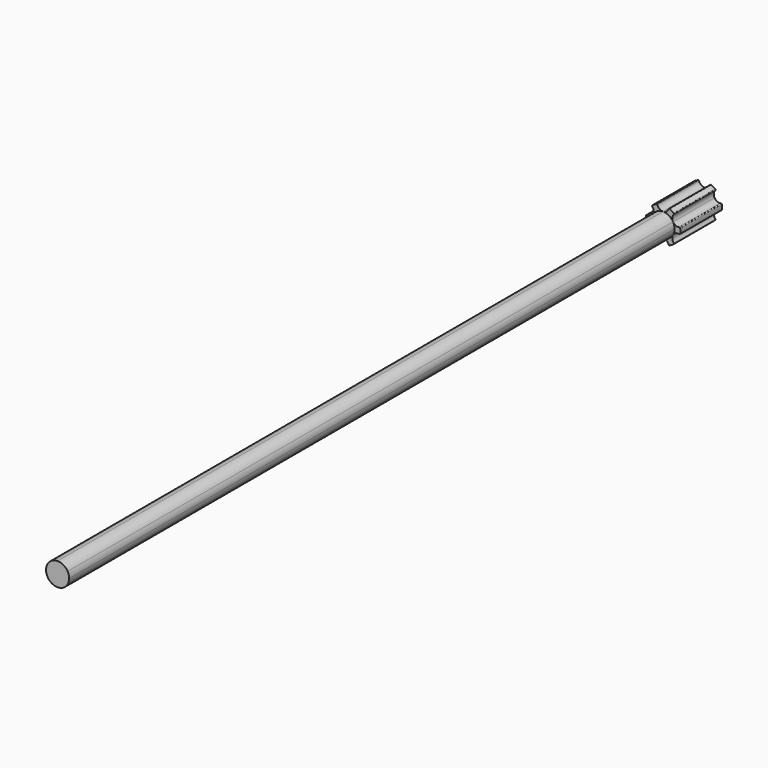
from build123d import *

# Parameters (mm, degrees)
F1_DEPTH = 700
F2_DEPTH = 45
F3_R     = 0.7


with BuildPart() as f1:
    # F0 (on Front) → F1 (new body)
    with BuildSketch(Plane.XZ):
        with BuildLine():
            ThreePointArc((8.660254, -5), (9.659258, -2.58819), (10, 0))
            ThreePointArc((10, 0), (9.659258, 2.588191), (8.660254, 5))
            ThreePointArc((8.660254, 5), (5, 8.660254), (0, 10))
            ThreePointArc((0, 10), (-5, 8.660254), (-8.660254, 5))
            ThreePointArc((-8.660254, 5), (-10, 0), (-8.660254, -5))
            ThreePointArc((-8.660254, -5), (-5, -8.660254), (0, -10))
            ThreePointArc((0, -10), (5, -8.660254), (8.660254, -5))
        make_face()
    extrude(amount=F1_DEPTH)

    # F0 (on Front) → F2 (join)
    with BuildSketch(Plane.XZ):
        with BuildLine():
            ThreePointArc((8.660254, 5), (9.659258, 2.588191), (10, 0))
            ThreePointArc((10, 0), (9.659258, -2.58819), (8.660254, -5))
            ThreePointArc((8.660254, -5), (11.296935, -2.795508), (14.733726, -2.813771))
            ThreePointArc((14.733726, -2.813771), (15, 0), (14.733726, 2.813771))
            ThreePointArc((14.733726, 2.813771), (11.296935, 2.795509), (8.660254, 5))
        make_face()
        with BuildLine():
            ThreePointArc((0, 10), (5, 8.660254), (8.660254, 5))
            ThreePointArc((8.660254, 5), (8.069449, 8.385679), (9.80366, 11.352896))
            ThreePointArc((9.80366, 11.352896), (7.5, 12.990381), (4.930066, 14.166667))
            ThreePointArc((4.930066, 14.166667), (3.227486, 11.181187), (0, 10))
        make_face()
        with BuildLine():
            ThreePointArc((9.80366, -11.352896), (8.069449, -8.385678), (8.660254, -5))
            ThreePointArc((8.660254, -5), (5, -8.660254), (0, -10))
            ThreePointArc((0, -10), (3.227486, -11.181187), (4.930066, -14.166667))
            ThreePointArc((4.930066, -14.166667), (7.5, -12.990381), (9.80366, -11.352896))
        make_face()
        with BuildLine():
            ThreePointArc((-8.660254, 5), (-5, 8.660254), (0, 10))
            ThreePointArc((0, 10), (-3.227486, 11.181187), (-4.930066, 14.166667))
            ThreePointArc((-4.930066, 14.166667), (-7.5, 12.990381), (-9.80366, 11.352896))
            ThreePointArc((-9.80366, 11.352896), (-8.069449, 8.385678), (-8.660254, 5))
        make_face()
        with BuildLine():
            ThreePointArc((-4.930066, -14.166667), (-3.227486, -11.181187), (0, -10))
            ThreePointArc((0, -10), (-5, -8.660254), (-8.660254, -5))
            ThreePointArc((-8.660254, -5), (-8.069449, -8.385678), (-9.80366, -11.352896))
            ThreePointArc((-9.80366, -11.352896), (-7.5, -12.990381), (-4.930066, -14.166667))
        make_face()
        with BuildLine():
            ThreePointArc((-8.660254, -5), (-10, 0), (-8.660254, 5))
            ThreePointArc((-8.660254, 5), (-11.296935, 2.795508), (-14.733726, 2.813771))
            ThreePointArc((-14.733726, 2.813771), (-15, 0), (-14.733726, -2.813771))
            ThreePointArc((-14.733726, -2.813771), (-11.296935, -2.795508), (-8.660254, -5))
        make_face()
    extrude(amount=F2_DEPTH)

    # F3
    f3_edges = [f1.edges().sort_by_distance(p)[0] for p in [
        (14.733726, -22.5, -2.813771),
        (9.80366, -22.5, -11.352896),
        (4.930066, -22.5, -14.166667),
        (-4.930066, -22.5, -14.166667),
        (-9.80366, -22.5, -11.352896),
        (-14.733726, -22.5, -2.813771),
        (-14.733726, -22.5, 2.813771),
        (-9.80366, -22.5, 11.352896),
        (-4.930066, -22.5, 14.166667),
        (4.930066, -22.5, 14.166667),
        (9.80366, -22.5, 11.352896),
        (14.733726, -22.5, 2.813771),
    ]]
    fillet(f3_edges, radius=F3_R)


solid = f1.part
